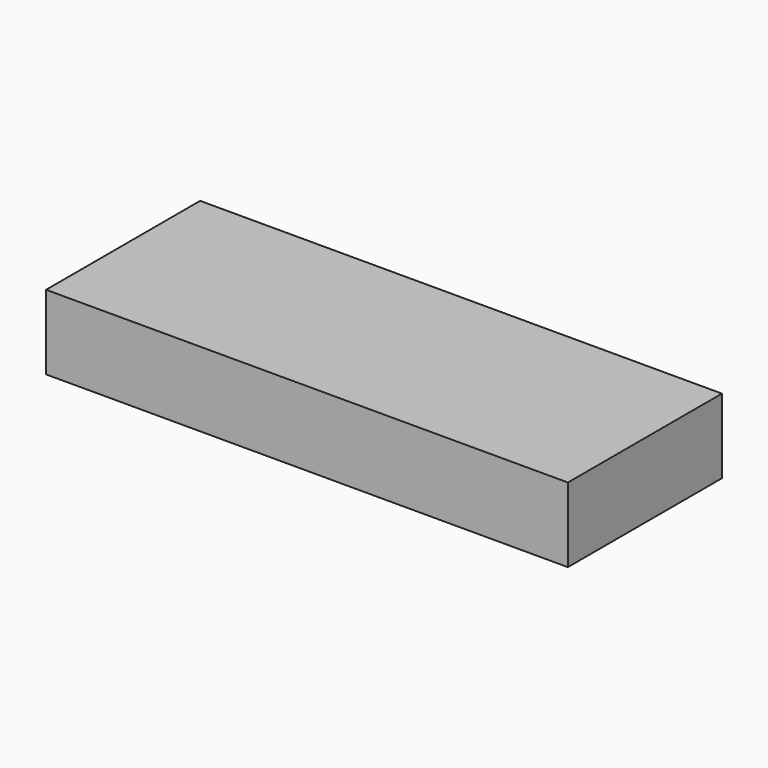
from build123d import *

# Parameters (mm, degrees)
F0_W     = 2133.6
F0_H     = 787.4
F1_DEPTH = 304.8
F2_W     = 152.4
F2_H     = 152.4
F3_DEPTH = 6.35
F5_DEPTH = 41.275


with BuildPart() as f1:
    # F0 (on Top) → F1 (new body)
    with BuildSketch(Plane.XY):
        with Locations((1066.8, -393.7)):
            Rectangle(F0_W, F0_H)
    extrude(amount=F1_DEPTH)


with BuildPart() as f3:
    # F2 (on Top) → F3 (new body)
    with BuildSketch(Plane.XY):
        with Locations((76.2, -76.2)):
            Rectangle(F2_W, F2_H)
    extrude(amount=F3_DEPTH)

    # F4 (on face) → F5 (join)
    with BuildSketch(Plane.XY.offset(6.35)):
        Polygon((50.127938, -46.885129), (50.127938, -88.160129), (56.477938, -88.160129), (56.477938, -53.235129), (97.752938, -53.235129), (97.752938, -88.160129), (104.102938, -88.160129), (104.102938, -46.885129), align=None)
    extrude(amount=F5_DEPTH)


solid = Compound([f1.part, f3.part])
